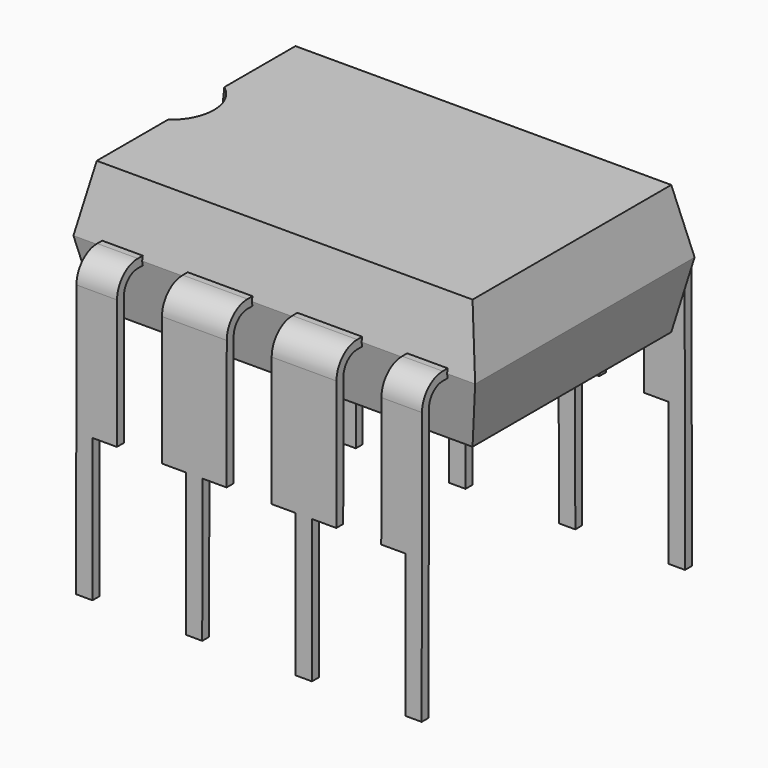
from build123d import *

# Parameters (mm, degrees)
F4_W      = 8.7
F4_H      = 5.75
F3_W      = 9.3
F3_H      = 6.35
F5_W      = 8.7
F5_H      = 5.75
F9_DEPTH  = 0.5
F12_W     = 1.5
F12_H     = 0.2
F14_W     = 0.6195948031
F14_H     = 4.0430515073
F15_DEPTH = 25
F20_W     = 1.304730963
F20_H     = 4.4884709641
F21_DEPTH = 25
F22_W     = 1.5146217346
F22_H     = 4.5125598554
F23_DEPTH = 25


with BuildPart() as f6:
    # F4 (on offset) → F6 section 0
    with BuildSketch(Plane.XY.offset(2)):
        Rectangle(F4_W, F4_H)
    # F3 (on offset) → F6 section 1
    with BuildSketch(Plane.XY.offset(3.5)):
        Rectangle(F3_W, F3_H)
    loft()

    # F3 (on offset) → F7 section 0
    with BuildSketch(Plane.XY.offset(3.5)):
        Rectangle(F3_W, F3_H)
    # F5 (on offset) → F7 section 1
    with BuildSketch(Plane.XY.offset(5)):
        Rectangle(F5_W, F5_H)
    loft()

    # F8 (on face) → F9 (cut)
    with BuildSketch(Plane.XY.offset(5)):
        with BuildLine():
            Line((-4.5071290817, 0.9109661553), (-4.5071290817, -0.9109661553))
            ThreePointArc((-4.5071290817, -0.9109661553), (-3.936739006, 0), (-4.5071290817, 0.9109661553))
        make_face()
    extrude(amount=-F9_DEPTH, mode=Mode.SUBTRACT)



with BuildPart() as f13:
    # F13: sweep along a path in F10
    with BuildLine(Plane.YZ) as f13_path:
        Line((-2.0310959943, 3.5), (-3.3000006297, 3.5))
        ThreePointArc((-3.3000006297, 3.5), (-3.6532733467, 3.3538338416), (-3.8, 3.0007935498))
        Line((-3.8, 3.0007935498), (-3.81, -3.3))
    # F12 (on line) → F13 (sweep)
    with BuildSketch(Plane(origin=(0, -0.0052470193, -3.3060385298), x_dir=(1, 0, 0), z_dir=(0, -0.0015870997, -0.9999987406))):
        with Locations((0, 3.8047577726)):
            Rectangle(F12_W, F12_H)
    sweep(path=f13_path.line)

    # F14 (on face) → F15 (cut)
    with BuildSketch(Plane(origin=(0, -3.9047528548, 0.0061972398), x_dir=(1, 0, 0), z_dir=(0, -0.9999987406, 0.0015870997))):
        with Locations((-0.4997974016, -2.0215257537)):
            Rectangle(F14_W, F14_H)
        with Locations((0.4997974016, -2.0215257537)):
            Rectangle(F14_W, F14_H)
    extrude(amount=-F15_DEPTH, mode=Mode.SUBTRACT)


with BuildPart() as f13_1:
    # F16: moved
    add(f13.part.moved(Location((-1.27, 0, 0))))


with BuildPart() as f17_1:
    # F17: copy of F13
    add(f13_1.part.moved(Location((2.54, 0, 0))))


with BuildPart() as f18_1:
    # F18: copy of F13
    add(f13_1.part.moved(Location((-2.54, 0, 0))))

    # F20 (on face) → F21 (cut)
    with BuildSketch(Plane(origin=(0, -3.9047528548, 0.0061972398), x_dir=(1, 0, 0), z_dir=(0, -0.9999987406, 0.0015870997))):
        with Locations((-4.6523654815, 1.4981951099)):
            Rectangle(F20_W, F20_H)
    extrude(amount=-F21_DEPTH, mode=Mode.SUBTRACT)


with BuildPart() as f19_1:
    # F19: copy of F17_1
    add(f17_1.part.moved(Location((2.54, 0, 0))))

    # F22 (on face) → F23 (cut)
    with BuildSketch(Plane(origin=(0, -3.9047528548, 0.0061972398), x_dir=(1, 0, 0), z_dir=(0, -0.9999987406, 0.0015870997))):
        with Locations((4.7573108673, 1.4692934928)):
            Rectangle(F22_W, F22_H)
    extrude(amount=-F23_DEPTH, mode=Mode.SUBTRACT)


with BuildPart() as f6_1:
    add(f6.part)

    add(f13_1.part)  # F24 merges F13

    add(f17_1.part)  # F24 merges F17_1

    add(f18_1.part)  # F24 merges F18_1

    add(f19_1.part)  # F24 merges F19_1
    # F24: F18_1, F13, F17_1, F19_1 across plane
    add(f18_1.part.mirror(Plane.XZ))
    add(f13_1.part.mirror(Plane.XZ))
    add(f17_1.part.mirror(Plane.XZ))
    add(f19_1.part.mirror(Plane.XZ))


solid = f6_1.part
